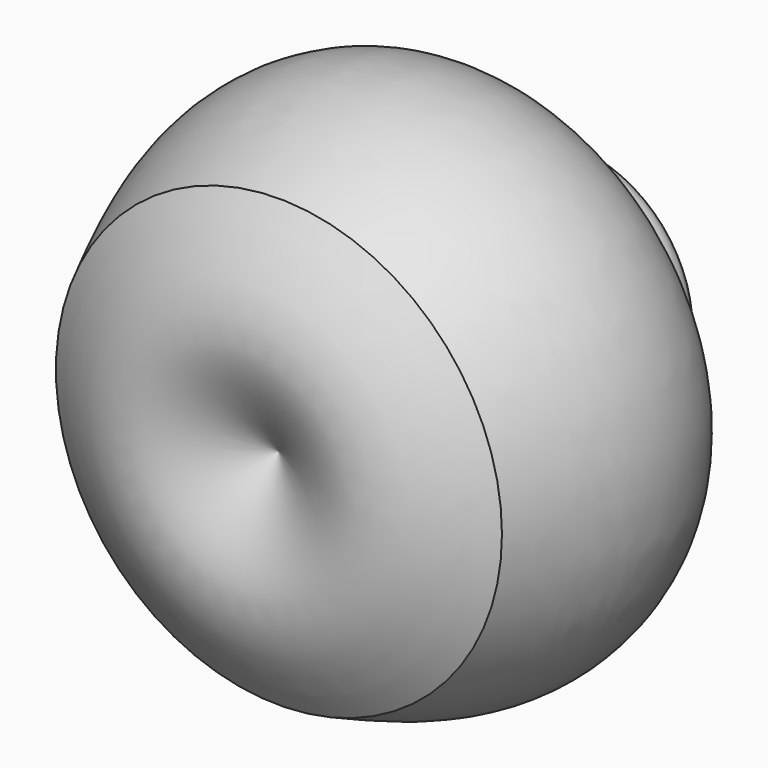
from build123d import *


with BuildPart() as f1:
    # F0 (on Top) → F1 (revolve)
    with BuildSketch(Plane.XY):
        with BuildLine():
            add(Edge.make_bspline(
                [(55.4023571312, -38.9503873885), (61.3758686438, -26.0988918025), (72.5586551093, -2.0400897729), (56.73305142, 33.876785604), (17.5057632814, 21.7237460133), (41.5142637137, 58.1764968036), (14.7640805685, 54.3049889909), (0, 52.1682091057)],
                knots=[0, 0, 0, 0, 0.2362531352, 0.442280618, 0.624269494, 0.7926251408, 1, 1, 1, 1], degree=3))
            Line((0, 52.1682091057), (0, -38.9503873885))
            add(Edge.make_bspline(
                [(0, -38.9503873885), (9.5375161238, -45.04026742), (28.4113661181, -57.091568902), (46.4695226342, -44.9543229965), (55.4023571312, -38.9503873885)],
                knots=[0, 0, 0, 0, 0.5053296559, 1, 1, 1, 1], degree=3))
        make_face()
    revolve(axis=Axis((0, 6.6089108586, 0), (0, -1, 0)))


solid = f1.part
